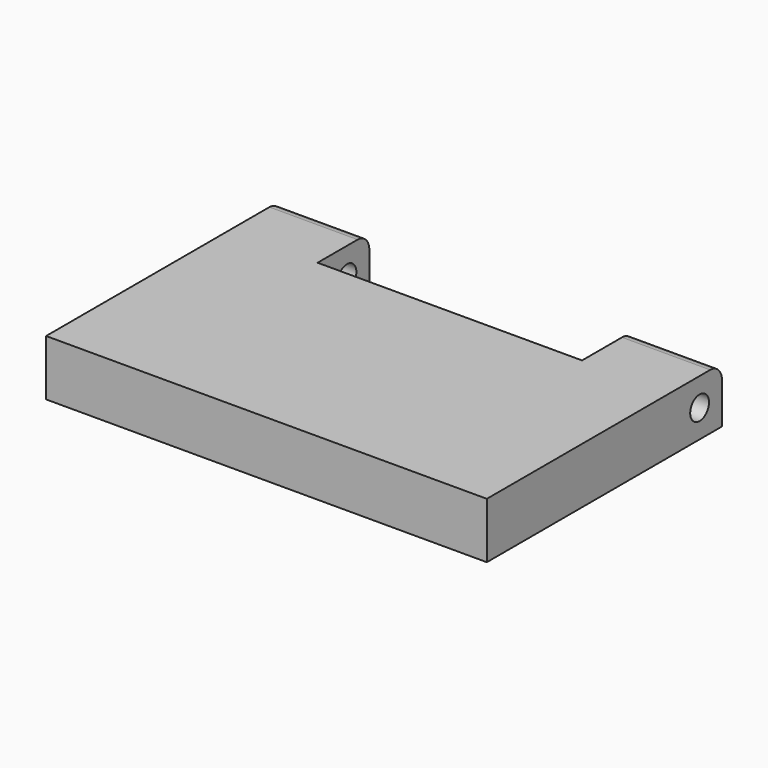
from build123d import *

# Parameters (mm, degrees)
F1_DEPTH = 19
F2_R     = 4
F3_DEPTH = 150.001
F4_R     = 5


with BuildPart() as f1:
    # F0 (on Top) → F1 (new body)
    with BuildSketch(Plane.XY):
        Polygon((-75, -50), (75, -50), (75, 50), (45, 50), (45, 28), (-45, 28), (-45, 50), (-75, 50), align=None)
    extrude(amount=F1_DEPTH)

    # F2 (on face) → F3 (cut, through all)
    with BuildSketch(Plane.YZ.offset(75)):
        with Locations((40.5, 9.5)):
            Circle(F2_R)
    extrude(amount=-F3_DEPTH, mode=Mode.SUBTRACT)

    # F4
    f4_edges = [f1.edges().sort_by_distance(p)[0] for p in [
        (-60, 50, 19),
        (60, 50, 19),
    ]]
    fillet(f4_edges, radius=F4_R)


solid = f1.part
